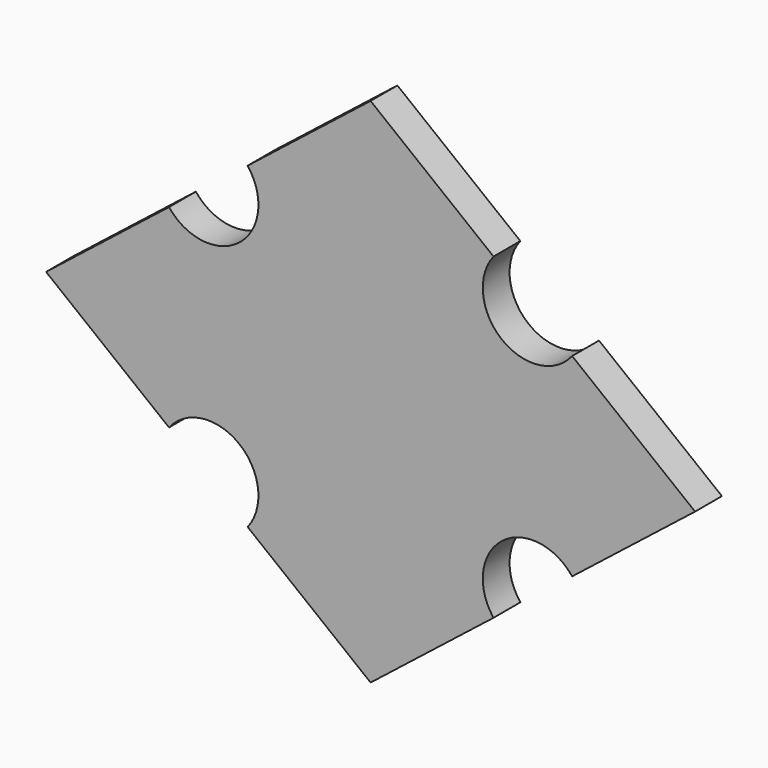
from build123d import *

# Parameters (mm, degrees)
F1_DEPTH = 6.7


with BuildPart() as f1:
    # F0 (on Front) → F1 (new body)
    with BuildSketch(Plane.XZ):
        with BuildLine():
            Line((24.55282, 31.759426), (0, 51.130846))
            Line((0, 51.130846), (-24.55282, 31.759426))
            ThreePointArc((-24.55282, 31.759426), (-26.20957, 17.71467), (-40.254327, 19.37142))
            Line((-40.254327, 19.37142), (-64.807147, 0))
            Line((-64.807147, 0), (-40.254327, -19.37142))
            ThreePointArc((-40.254327, -19.37142), (-26.20957, -17.71467), (-24.55282, -31.759426))
            Line((-24.55282, -31.759426), (0, -51.130846))
            Line((0, -51.130846), (24.55282, -31.759426))
            ThreePointArc((24.55282, -31.759426), (26.20957, -17.71467), (40.254327, -19.37142))
            Line((40.254327, -19.37142), (64.807147, 0))
            Line((64.807147, 0), (40.254327, 19.37142))
            ThreePointArc((40.254327, 19.37142), (26.20957, 17.71467), (24.55282, 31.759426))
        make_face()
    extrude(amount=F1_DEPTH)


solid = f1.part
